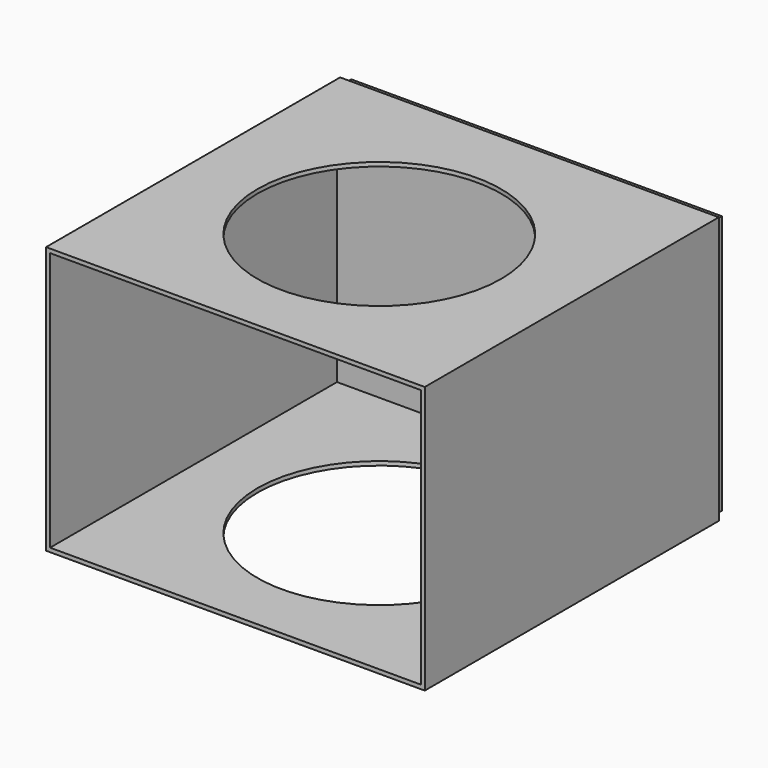
from build123d import *

# Parameters (mm, degrees)
F0_W     = 170
F0_H     = 120
F0_W_2   = 166.4
F0_H_2   = 116.4
F1_DEPTH = 165
F3_R     = 54.678141
F4_DEPTH = 159
F6_DEPTH = 4


with BuildPart() as f1:
    # F0 (on Front) → F1 (new body)
    with BuildSketch(Plane.XZ):
        Rectangle(F0_W, F0_H)
        Rectangle(F0_W_2, F0_H_2, mode=Mode.SUBTRACT)
    extrude(amount=F1_DEPTH)


with BuildPart() as f4:
    # F3 (on face) → F4 (new body, symmetric)
    with BuildSketch(Plane.XY.offset(60)):
        with Locations((0, -84.26436)):
            Circle(F3_R)
    extrude(amount=F4_DEPTH, both=True)


with BuildPart() as f1_1:
    add(f1.part)

    # F5: cut F4
    add(f4.part, mode=Mode.SUBTRACT)

    # F0 (on Front) → F6 (join, symmetric)
    with BuildSketch(Plane.XZ):
        Rectangle(F0_W_2, F0_H_2)
    extrude(amount=F6_DEPTH, both=True)


solid = f1_1.part
